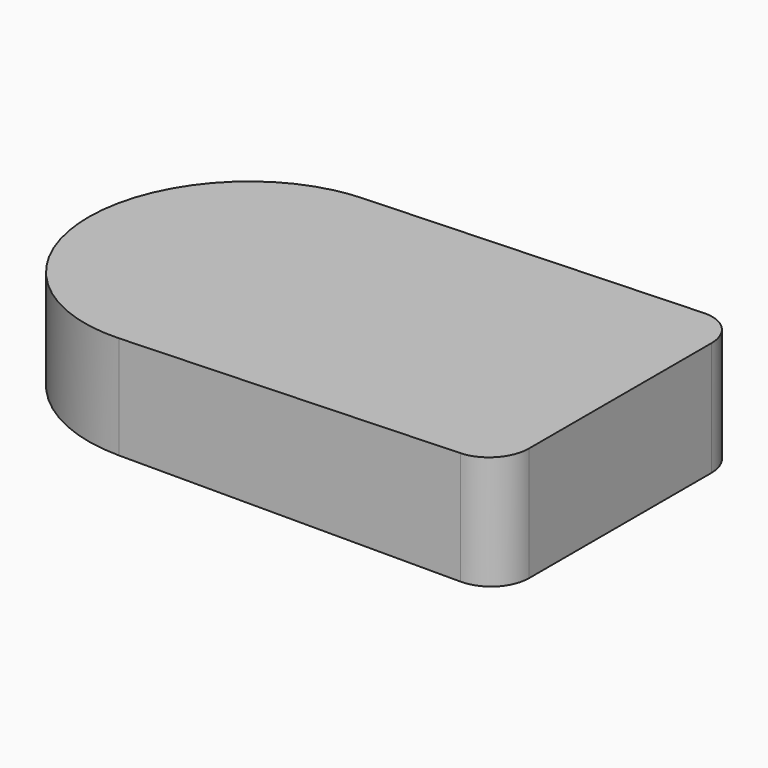
from build123d import *

# Parameters (mm, degrees)
F1_DEPTH = 19.1008
F3_DEPTH = 76.2
F4_T     = -2.54
F5_R     = 22.0345
F6_DEPTH = 6.35
F7_R     = 6.35
F8_T     = -4.699
F9_R     = 5.08


with BuildPart() as f1:
    # F0 (on Top) → F1 (new body)
    with BuildSketch(Plane.XY):
        with BuildLine():
            ThreePointArc((-50.7750985182, 50.8), (-76.1750985182, 25.4), (-50.7750985182, 0))
            Line((-50.7750985182, 0), (12.7249014818, 0))
            Line((12.7249014818, 0), (12.7249014818, 50.8))
            Line((12.7249014818, 50.8), (-50.7750985182, 50.8))
        make_face()
    extrude(amount=F1_DEPTH)

    # F2 (on face) → F3 (cut)
    with BuildSketch(Plane.XZ):
        Polygon((-76.1750985182, 16.51), (12.7249014818, 19.1008), (-76.1750985182, 19.1008), align=None)
    extrude(amount=-F3_DEPTH, mode=Mode.SUBTRACT)

    # F4
    f4_openings = [f1.faces().sort_by_distance(p)[0] for p in [
        (-29.192225, 25.4, 0),
    ]]
    offset(amount=F4_T, openings=f4_openings, kind=Kind.INTERSECTION)

    # F5 (on face) → F6 (join)
    with BuildSketch(Plane(origin=(-0.4713899101, 0, 16.1751439753), x_dir=(0.9995756172, 0, 0.0291304894), z_dir=(0.0291304894, 0, -0.9995756172))):
        with Locations((-18.9927711198, -25.4)):
            Circle(F5_R)
    extrude(amount=F6_DEPTH)

    # F7
    f7_edges = [f1.edges().sort_by_distance(p)[0] for p in [
        (12.724901, 50.8, 9.5504),
        (12.724901, 0, 9.5504),
    ]]
    fillet(f7_edges, radius=F7_R)

    # F8
    f8_openings = [f1.faces().sort_by_distance(p)[0] for p in [
        (-19.271122, 25.4, 9.27457),
    ]]
    offset(amount=F8_T, openings=f8_openings)

    # F9
    f9_edges = [f1.edges().sort_by_distance(p)[0] for p in [
        (10.184901, 2.54, 8.242849),
        (10.184901, 48.26, 8.242849),
    ]]
    fillet(f9_edges, radius=F9_R)


solid = f1.part
